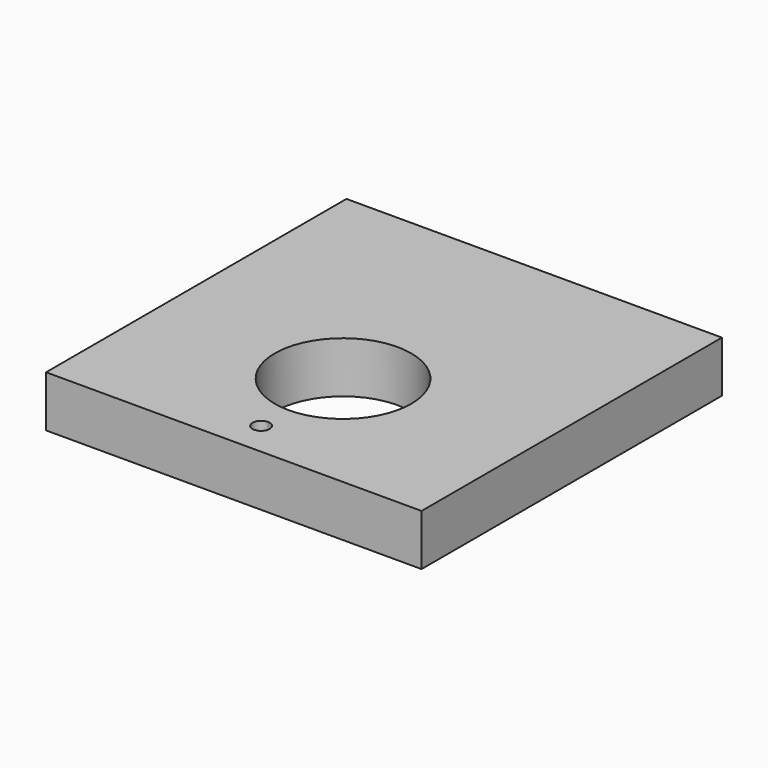
from build123d import *

# Parameters (mm, degrees)
F1_DEPTH = 19.05


with BuildPart() as f1:
    # F0 (on Top) → F1 (new body)
    with BuildSketch(Plane.XY):
        with BuildLine():
            ThreePointArc((25.416227, -20.168848), (-17.944285, -2.208336), (0.016227, -45.568848))
            ThreePointArc((0.016227, -45.568848), (17.97674, -38.12936), (25.416227, -20.168848))
        make_face()
        Polygon((0.016227, -70.968848), (69.866227, -70.968848), (69.866227, 68.731152), (-69.833773, 68.731152), (-69.833773, -70.968848), align=None)
        with BuildLine():
            ThreePointArc((3.191227, -58.268848), (2.261291, -60.513912), (0.016227, -61.443848))
            ThreePointArc((0.016227, -61.443848), (-3.158773, -58.268848), (0.016227, -55.093848))
            ThreePointArc((0.016227, -55.093848), (2.261291, -56.023784), (3.191227, -58.268848))
        make_face(mode=Mode.SUBTRACT)
        with BuildLine():
            ThreePointArc((25.416227, -20.168848), (17.97674, -38.12936), (0.016227, -45.568848))
            ThreePointArc((0.016227, -45.568848), (-17.944285, -2.208336), (25.416227, -20.168848))
        make_face(mode=Mode.SUBTRACT)
    extrude(amount=F1_DEPTH)


solid = f1.part
